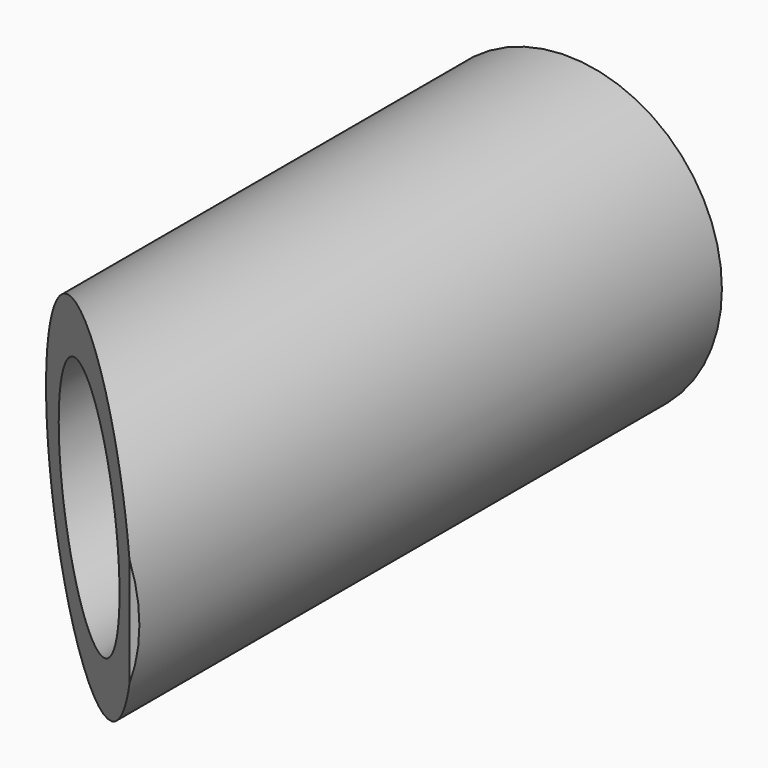
from build123d import *

# Parameters (mm, degrees)
F0_R     = 9.299289
F0_R_2   = 6.562982
F1_DEPTH = 21.844
F3_DEPTH = 25.4


with BuildPart() as f1:
    # F0 (on Front) → F1 (new body, symmetric)
    with BuildSketch(Plane.XZ):
        with Locations((-16.836638, 12.95126)):
            Circle(F0_R)
        with Locations((-16.836638, 12.95126)):
            Circle(F0_R_2, mode=Mode.SUBTRACT)
    extrude(amount=F1_DEPTH, both=True)

    # F2 (on Top) → F3 (cut)
    with BuildSketch(Plane.XY):
        Polygon((-33.079948, -29.187281), (0, -29.187281), (-33.079948, 0.672647), align=None)
    extrude(amount=F3_DEPTH, mode=Mode.SUBTRACT)


solid = f1.part
